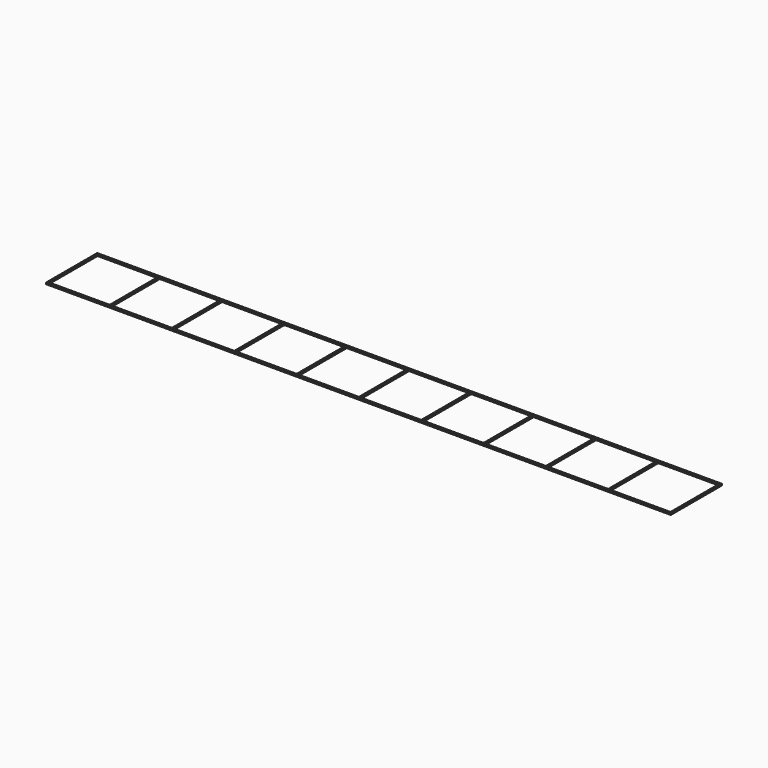
from build123d import *

# Parameters (mm, degrees)
F0_W     = 195.5
F0_H     = 20
F0_W_2   = 19
F0_H_2   = 19
F1_DEPTH = 0.5


with BuildPart() as f1:
    # F0 (on Top) → F1 (new body)
    with BuildSketch(Plane.XY):
        with Locations((32.803617, 51.525777)):
            Rectangle(F0_W, F0_H)
        with Locations((-54.946383, 51.525777)):
            Rectangle(F0_W_2, F0_H_2, mode=Mode.SUBTRACT)
        with Locations((-35.446383, 51.525777)):
            Rectangle(F0_W_2, F0_H_2, mode=Mode.SUBTRACT)
        with Locations((-15.946383, 51.525777)):
            Rectangle(F0_W_2, F0_H_2, mode=Mode.SUBTRACT)
        with Locations((3.553617, 51.525777)):
            Rectangle(F0_W_2, F0_H_2, mode=Mode.SUBTRACT)
        with Locations((23.053617, 51.525777)):
            Rectangle(F0_W_2, F0_H_2, mode=Mode.SUBTRACT)
        with Locations((42.553617, 51.525777)):
            Rectangle(F0_W_2, F0_H_2, mode=Mode.SUBTRACT)
        with Locations((62.053617, 51.525777)):
            Rectangle(F0_W_2, F0_H_2, mode=Mode.SUBTRACT)
        with Locations((81.553617, 51.525777)):
            Rectangle(F0_W_2, F0_H_2, mode=Mode.SUBTRACT)
        with Locations((101.053617, 51.525777)):
            Rectangle(F0_W_2, F0_H_2, mode=Mode.SUBTRACT)
        with Locations((120.553617, 51.525777)):
            Rectangle(F0_W_2, F0_H_2, mode=Mode.SUBTRACT)
    extrude(amount=F1_DEPTH)


solid = f1.part
